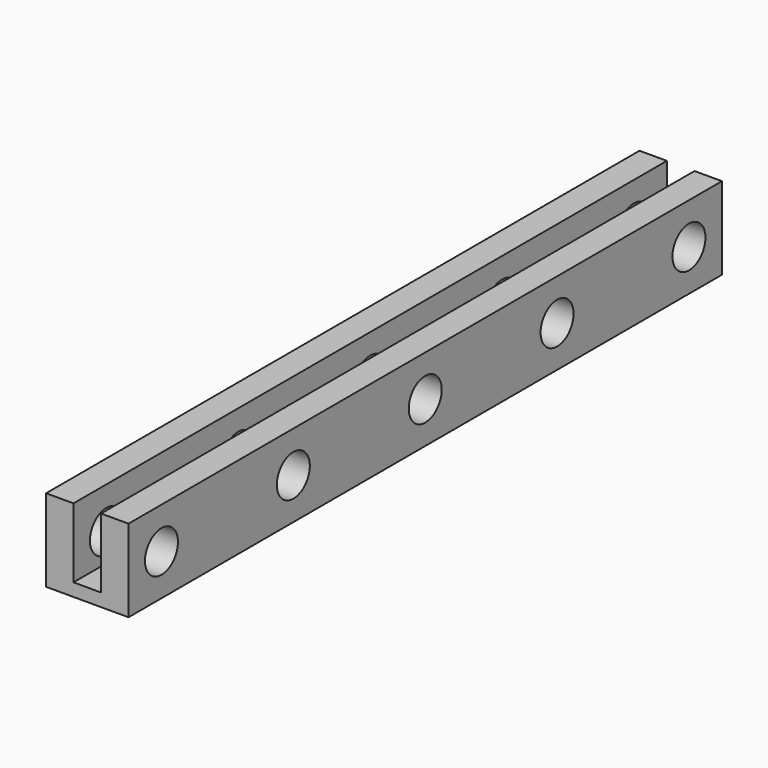
from build123d import *

# Parameters (mm, degrees)
F1_DEPTH = 72
F2_R     = 2
F3_DEPTH = 8.1


with BuildPart() as f1:
    # F0 (on Front) → F1 (new body)
    with BuildSketch(Plane.XZ):
        Polygon((-1.34, 4), (-4, 4), (-4, -4), (4, -4), (4, 4), (1.34, 4), (1.34, -2.75), (-1.34, -2.75), align=None)
    extrude(amount=F1_DEPTH)

    # F2 (on face) → F3 (cut)
    with BuildSketch(Plane.YZ.offset(4)):
        with Locations((-68, 0)):
            Circle(F2_R)
        with Locations((-52, 0)):
            Circle(F2_R)
        with Locations((-36, 0)):
            Circle(F2_R)
        with Locations((-20, 0)):
            Circle(F2_R)
        with Locations((-4, 0)):
            Circle(F2_R)
    extrude(amount=-F3_DEPTH, mode=Mode.SUBTRACT)


solid = f1.part
